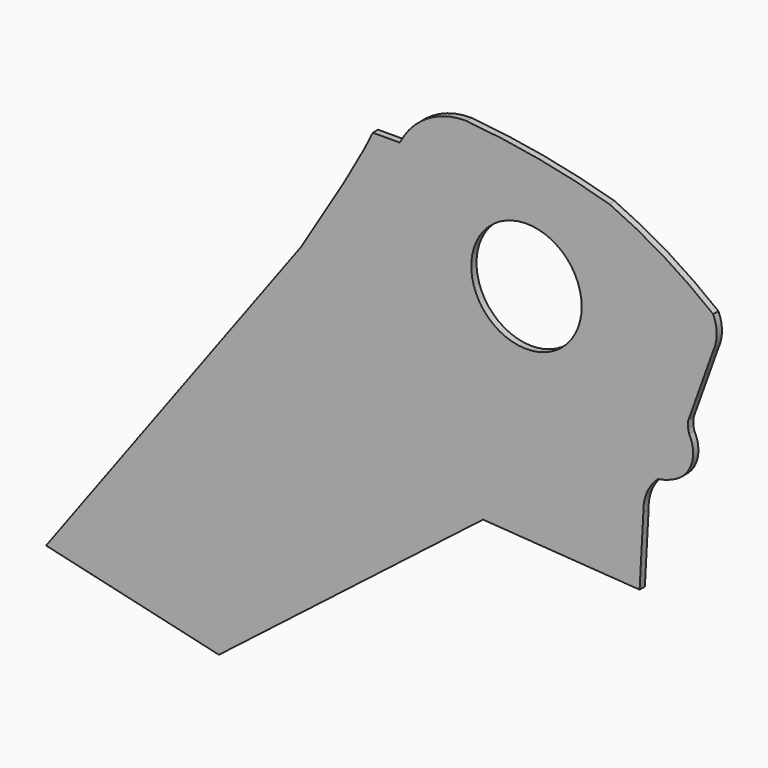
from build123d import *

# Parameters (mm, degrees)
F0_R     = 26.642758
F1_DEPTH = 3.175


with BuildPart() as f1:
    # F0 (on Front) → F1 (new body)
    with BuildSketch(Plane.XZ):
        with BuildLine():
            Line((-72.766679, -30.089816), (10.62915, -49.381091))
            Line((10.62915, -49.381091), (138.067558, 49.484655))
            Line((138.067558, 49.484655), (213.627741, 44.286888))
            Line((213.627741, 44.286888), (215.427414, 77.634275))
            ThreePointArc((215.427414, 77.634275), (217.105255, 86.703853), (222.506657, 94.180301))
            ThreePointArc((222.506657, 94.180301), (226.58992, 95.149238), (230.482161, 96.718423))
            ThreePointArc((230.482161, 96.718423), (238.69917, 105.867805), (237.550482, 118.111618))
            Line((237.550482, 118.111618), (237.049744, 120.383069))
            Line((237.049744, 120.383069), (237.049744, 123.645328))
            Line((237.049744, 123.645328), (249.125496, 157.279864))
            ThreePointArc((249.125496, 157.279864), (250.83956, 165.077008), (249.125496, 172.874153))
            ThreePointArc((249.125496, 172.874153), (225.074336, 189.735621), (199.054375, 203.363866))
            ThreePointArc((199.054375, 203.363866), (164.912867, 211.457343), (130.152509, 216.23902))
            ThreePointArc((130.152509, 216.23902), (111.19185, 211.074388), (97.947024, 196.557))
            Line((97.947024, 196.557), (84.895641, 196.557))
            Line((84.895641, 196.557), (80.818161, 188.408732))
            Line((80.818161, 188.408732), (71.140677, 171.152696))
            Line((71.140677, 171.152696), (50.120212, 136.580497))
            Line((50.120212, 136.580497), (-72.766679, -30.089816))
        make_face()
        with Locations((159.031779, 155.395284)):
            Circle(F0_R, mode=Mode.SUBTRACT)
    extrude(amount=F1_DEPTH)


solid = f1.part
